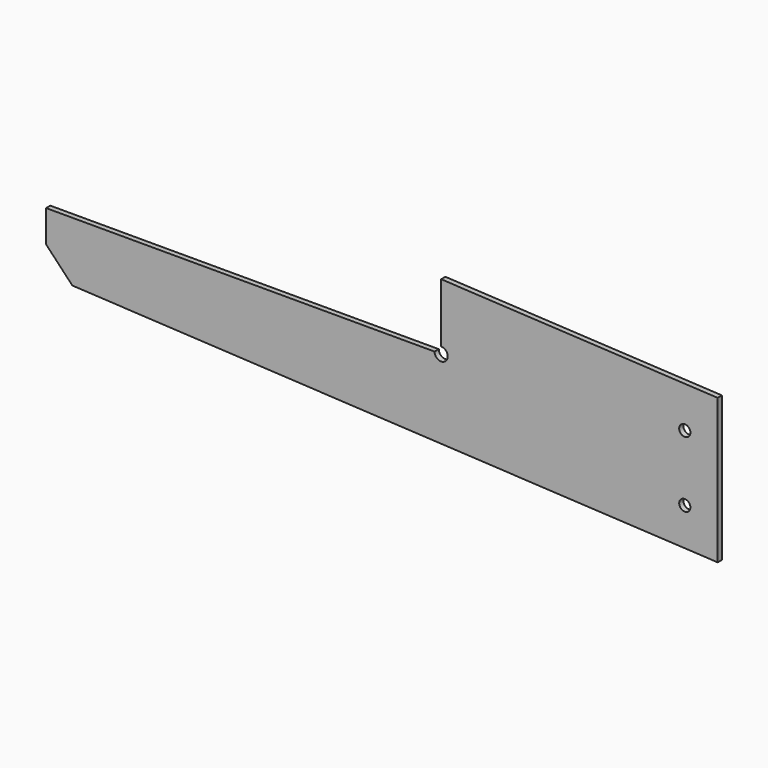
from build123d import *

# Parameters (mm, degrees)
F1_DEPTH = 4
F2_SIZE  = 20
F3_R     = 5
F4_DEPTH = 25
F5_R     = 4.25
F6_DEPTH = 25


with BuildPart() as f1:
    # F0 (on Front) → F1 (new body)
    with BuildSketch(Plane.XZ):
        Polygon((92.662452, -21.205135), (-207.337548, -21.205135), (-207.337548, -65.482802), (92.662452, -81.205135), align=None)
        Polygon((92.662452, 28.794865), (92.662452, -21.205135), (92.662452, -81.205135), (302.662452, -92.210769), (302.662452, 17.789231), align=None)
    extrude(amount=F1_DEPTH)

    # F2
    f2_edges = [f1.edges().sort_by_distance(p)[0] for p in [
        (-207.337548, -2, -65.482802),
    ]]
    chamfer(f2_edges, length=F2_SIZE)

    # F3 (on face) → F4 (cut)
    with BuildSketch(Plane.XZ.offset(4)):
        with Locations((92.662452, -21.205135)):
            Circle(F3_R)
    extrude(amount=-F4_DEPTH, mode=Mode.SUBTRACT)

    # F5 (on face) → F6 (cut)
    with BuildSketch(Plane.XZ.offset(4)):
        with Locations((277.662452, -12.210769)):
            Circle(F5_R)
        with Locations((277.662452, -62.210769)):
            Circle(F5_R)
    extrude(amount=-F6_DEPTH, mode=Mode.SUBTRACT)


solid = f1.part
